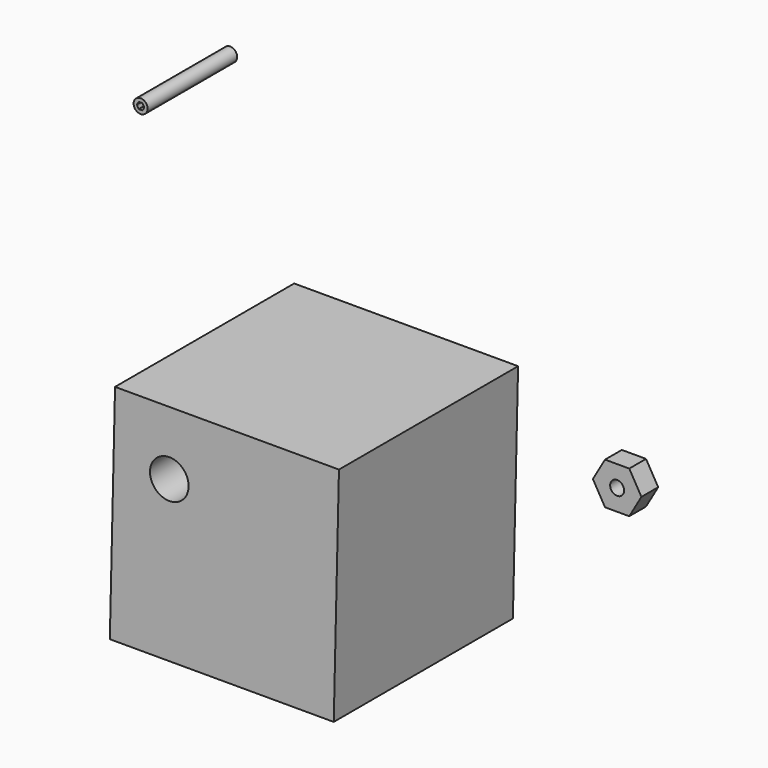
from build123d import *

# Parameters (mm, degrees)
F1_DEPTH = 50.8
F2_R     = 4.379627
F3_DEPTH = 50.8
F4_R     = 1.5875
F5_DEPTH = 4.7625
F6_R     = 1.5875
F7_DEPTH = 25.4


with BuildPart() as f1:
    # F0 (on Front) → F1 (new body)
    with BuildSketch(Plane.XZ):
        Polygon((14.706183, 20.972032), (-36.093817, 20.972032), (-37.276511, -29.814199), (13.523489, -29.814199), align=None)
    extrude(amount=F1_DEPTH)

    # F2 (on face) → F3 (cut)
    with BuildSketch(Plane.XZ.offset(50.8)):
        with Locations((-23.783537, 6.561407)):
            Circle(F2_R)
    extrude(amount=-F3_DEPTH, mode=Mode.SUBTRACT)


with BuildPart() as f5:
    # F4 (on Front) → F5 (new body)
    with BuildSketch(Plane.XZ):
        Polygon((38.239398, 2.375156), (43.738659, 2.375156), (46.48829, 7.137656), (43.738659, 11.900156), (38.239398, 11.900156), (35.489767, 7.137656), align=None)
        with Locations((40.989028, 7.137656)):
            Circle(F4_R, mode=Mode.SUBTRACT)
    extrude(amount=F5_DEPTH)


with BuildPart() as f7:
    # F6 (on Front) → F7 (new body)
    with BuildSketch(Plane.XZ):
        with Locations((-50.616756, 61.990615)):
            Circle(F6_R)
        with BuildLine():
            Line((-51.176698, 62.48991), (-51.040861, 62.725186))
            Line((-51.040861, 62.725186), (-50.769187, 62.725186))
            ThreePointArc((-50.769187, 62.725186), (-50.616756, 62.740835), (-50.464325, 62.725186))
            Line((-50.464325, 62.725186), (-50.192651, 62.725186))
            Line((-50.192651, 62.725186), (-50.056814, 62.48991))
            ThreePointArc((-50.056814, 62.48991), (-49.967046, 62.365725), (-49.904383, 62.225892))
            Line((-49.904383, 62.225892), (-49.768546, 61.990615))
            Line((-49.768546, 61.990615), (-49.904383, 61.755338))
            ThreePointArc((-49.904383, 61.755338), (-49.967046, 61.615505), (-50.056814, 61.49132))
            Line((-50.056814, 61.49132), (-50.192651, 61.256044))
            Line((-50.192651, 61.256044), (-50.464325, 61.256044))
            ThreePointArc((-50.464325, 61.256044), (-50.616756, 61.240395), (-50.769187, 61.256044))
            Line((-50.769187, 61.256044), (-51.040861, 61.256044))
            Line((-51.040861, 61.256044), (-51.176698, 61.49132))
            ThreePointArc((-51.176698, 61.49132), (-51.266466, 61.615505), (-51.329129, 61.755338))
            Line((-51.329129, 61.755338), (-51.464966, 61.990615))
            Line((-51.464966, 61.990615), (-51.329129, 62.225892))
            ThreePointArc((-51.329129, 62.225892), (-51.266466, 62.365725), (-51.176698, 62.48991))
        make_face(mode=Mode.SUBTRACT)
    extrude(amount=F7_DEPTH)


solid = Compound([f1.part, f5.part, f7.part])
